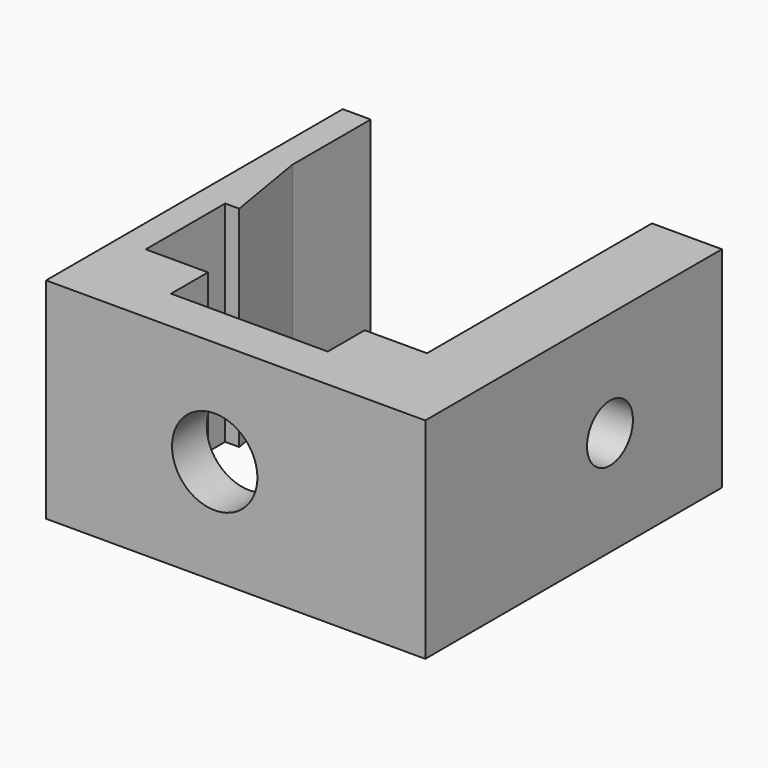
from build123d import *

# Parameters (mm, degrees)
F1_DEPTH = 15
F4_D     = 4.1
F4_DEPTH = 7
F5_D     = 6.1
F5_DEPTH = 7


with BuildPart() as f1:
    # F0 (on Top) → F1 (new body)
    with BuildSketch(Plane.XY):
        Polygon((-8.678603, 13), (-10.678603, 13), (-10.678603, -13.5), (16.421397, -13.5), (16.421397, 13), (11.421397, 13), (11.421397, -7.1), (6.971397, -7.1), (6.971397, -10.4), (-4.228603, -10.4), (-4.228603, -7.1), (-8.678603, -7.1), (-8.678603, 0), (-7.678603, 0), (-8.678603, 6), align=None)
    extrude(amount=F1_DEPTH)

    # F4
    with Locations(Plane.YZ.offset(16.421397)):
        with Locations((3, 7.5)):
            Hole(F4_D / 2, depth=F4_DEPTH)

    # F5
    with Locations(Plane.XZ.offset(13.5)):
        with Locations((1.371397, 7.5)):
            Hole(F5_D / 2, depth=F5_DEPTH)


solid = f1.part
